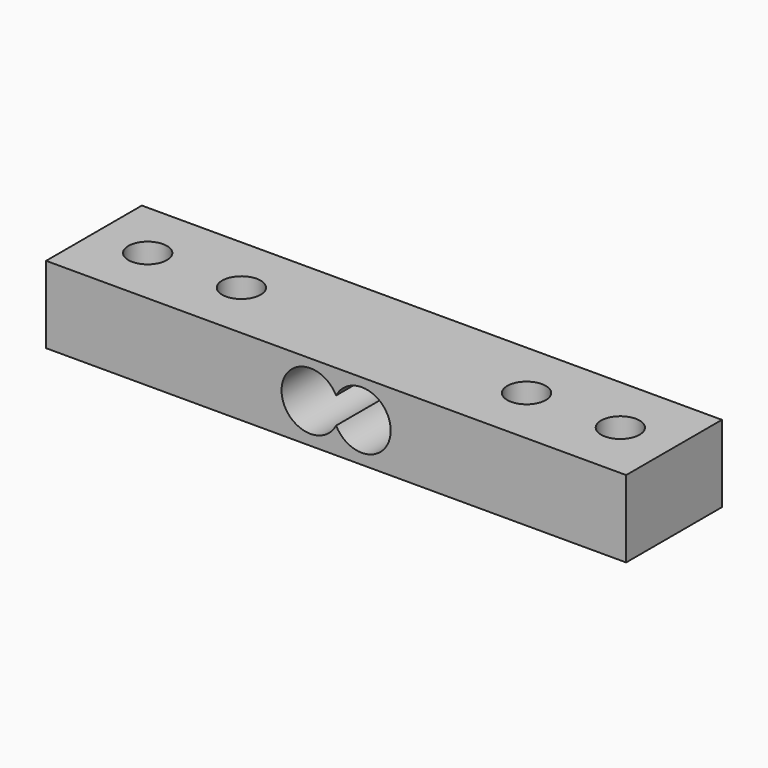
from build123d import *

# Parameters (mm, degrees)
F0_W     = 45.16
F0_H     = 9.32
F0_R     = 1.5
F1_DEPTH = 5.99
F3_DEPTH = 25


with BuildPart() as f1:
    # F0 (on Top) → F1 (new body)
    with BuildSketch(Plane.XY):
        Rectangle(F0_W, F0_H)
        with Locations((-18.4, 0)):
            Circle(F0_R, mode=Mode.SUBTRACT)
        with Locations((-11.1, 0)):
            Circle(F0_R, mode=Mode.SUBTRACT)
        with Locations((11.1, 0)):
            Circle(F0_R, mode=Mode.SUBTRACT)
        with Locations((18.4, 0)):
            Circle(F0_R, mode=Mode.SUBTRACT)
    extrude(amount=F1_DEPTH)

    # F2 (on face) → F3 (cut)
    with BuildSketch(Plane.XZ.offset(4.66)):
        with BuildLine():
            ThreePointArc((0, 2.0407482621), (0.1866069606, 2.5411945826), (0.25, 3.0715246685))
            ThreePointArc((0.25, 3.0715246685), (0.1866069606, 3.6018547544), (0, 4.1023010749))
            ThreePointArc((0, 4.1023010749), (-0.25, 3.0715246685), (0, 2.0407482621))
        make_face()
        with BuildLine():
            ThreePointArc((0, 4.1023010749), (0.1866069606, 3.6018547544), (0.25, 3.0715246685))
            ThreePointArc((0.25, 3.0715246685), (0.1866069606, 2.5411945826), (0, 2.0407482621))
            ThreePointArc((0, 2.0407482621), (2.5303300859, 0.8849177079), (4.25, 3.0715246685))
            ThreePointArc((4.25, 3.0715246685), (2.5303300859, 5.2581316291), (0, 4.1023010749))
        make_face()
        with BuildLine():
            ThreePointArc((0, 2.0407482621), (-0.25, 3.0715246685), (0, 4.1023010749))
            ThreePointArc((0, 4.1023010749), (-4.25, 3.0715246685), (0, 2.0407482621))
        make_face()
    extrude(amount=-F3_DEPTH, mode=Mode.SUBTRACT)


solid = f1.part
